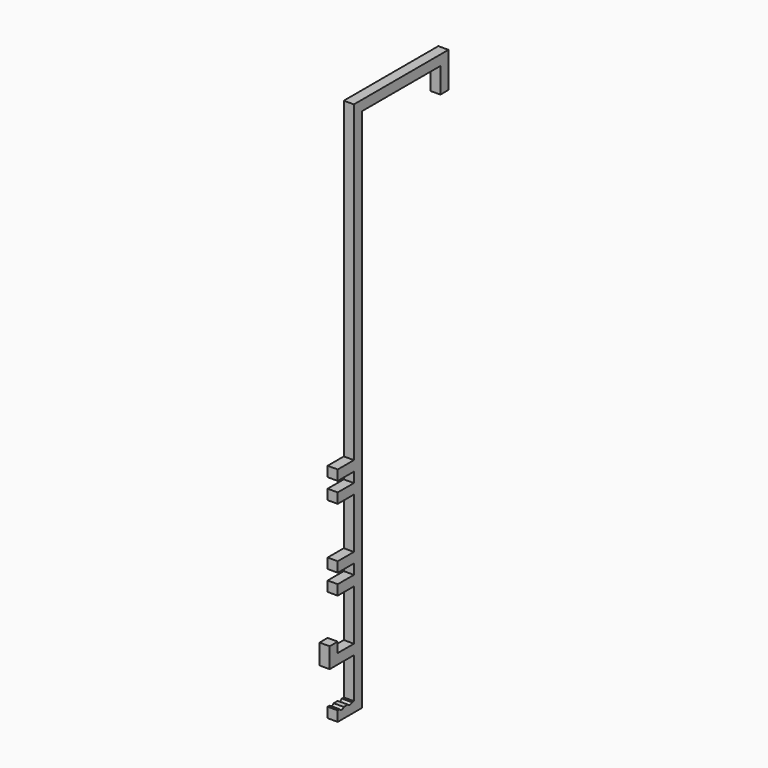
from build123d import *

# Parameters (mm, degrees)
F1_DEPTH = 10


with BuildPart() as f1:
    # F0 (on Right) → F1 (new body)
    with BuildSketch(Plane.YZ):
        with BuildLine():
            Line((115.396181, 316.925998), (-1.603819, 316.925998))
            Line((-1.603819, 316.925998), (-1.603819, 6.925998))
            Line((-1.603819, 6.925998), (-21.603819, 6.925998))
            Line((-21.603819, 6.925998), (-21.603819, -3.074002))
            Line((-21.603819, -3.074002), (-1.603819, -3.074002))
            Line((-1.603819, -3.074002), (-1.603819, -13.074002))
            Line((-1.603819, -13.074002), (-21.603819, -13.074002))
            Line((-21.603819, -13.074002), (-21.603819, -23.074002))
            Line((-21.603819, -23.074002), (-1.603819, -23.074002))
            Line((-1.603819, -23.074002), (-1.603819, -73.074002))
            Line((-1.603819, -73.074002), (-21.603819, -73.074002))
            Line((-21.603819, -73.074002), (-21.603819, -83.074002))
            Line((-21.603819, -83.074002), (-1.603819, -83.074002))
            Line((-1.603819, -83.074002), (-1.603819, -93.074002))
            Line((-1.603819, -93.074002), (-21.603819, -93.074002))
            Line((-21.603819, -93.074002), (-21.603819, -103.074002))
            Line((-21.603819, -103.074002), (-1.603819, -103.074002))
            Line((-1.603819, -103.074002), (-1.603819, -153.074002))
            Line((-1.603819, -153.074002), (-21.603819, -153.074002))
            Line((-21.603819, -153.074002), (-21.603819, -143.074002))
            Line((-21.603819, -143.074002), (-31.603819, -143.074002))
            Line((-31.603819, -143.074002), (-31.603819, -163.074002))
            Line((-31.603819, -163.074002), (-1.603819, -163.074002))
            Line((-1.603819, -163.074002), (-1.603819, -203.074002))
            Line((-1.603819, -203.074002), (-4.103819, -203.074002))
            ThreePointArc((-4.103819, -203.074002), (-6.603819, -204.415689), (-9.103819, -203.074002))
            Line((-9.103819, -203.074002), (-14.103819, -203.074002))
            ThreePointArc((-14.103819, -203.074002), (-16.603819, -204.415689), (-19.103819, -203.074002))
            Line((-19.103819, -203.074002), (-21.603819, -203.074002))
            Line((-21.603819, -203.074002), (-21.603819, -213.074002))
            Line((-21.603819, -213.074002), (8.396181, -213.074002))
            Line((8.396181, -213.074002), (8.396181, 306.925998))
            Line((8.396181, 306.925998), (105.396181, 306.925998))
            Line((105.396181, 306.925998), (105.396181, 281.925998))
            Line((105.396181, 281.925998), (115.396181, 281.925998))
            Line((115.396181, 281.925998), (115.396181, 316.925998))
        make_face()
    extrude(amount=-F1_DEPTH)


solid = f1.part
